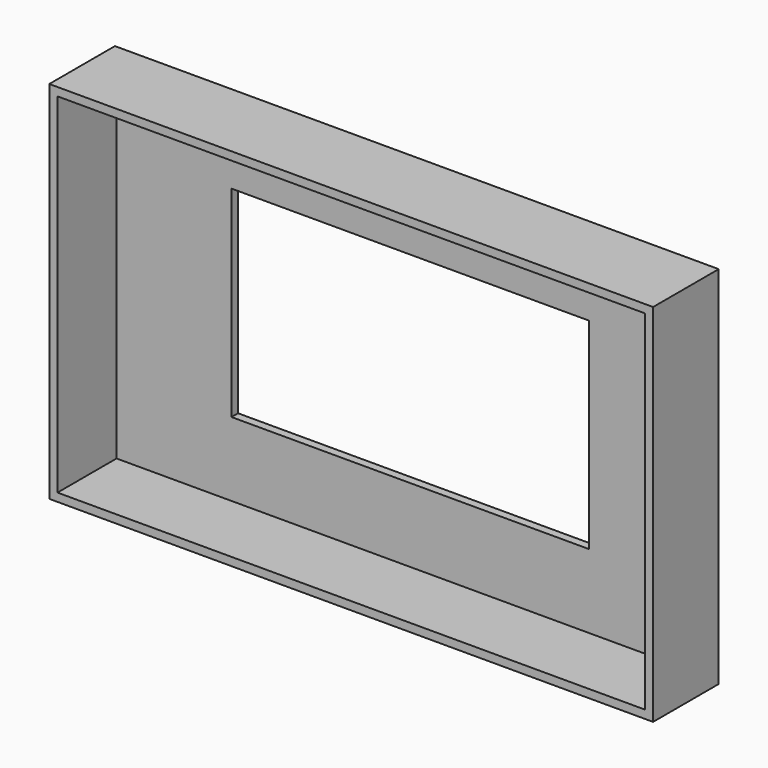
from build123d import *

# Parameters (mm, degrees)
F1_W     = 186.8932
F1_H     = 113.057654
F2_DEPTH = 25.4
F3_T     = -2.54
F0_W     = 110.6932
F0_H     = 62.257654
F4_DEPTH = 25.401


with BuildPart() as f2:
    # F1 (on Front) → F2 (new body)
    with BuildSketch(Plane.XZ):
        Rectangle(F1_W, F1_H)
    extrude(amount=F2_DEPTH)

    # F3
    f3_openings = [f2.faces().sort_by_distance(p)[0] for p in [
        (0, -25.4, 0),
    ]]
    offset(amount=F3_T, openings=f3_openings)

    # F0 (on Front) → F4 (cut, through all)
    with BuildSketch(Plane.XZ):
        Rectangle(F0_W, F0_H)
    extrude(amount=F4_DEPTH, mode=Mode.SUBTRACT)


solid = f2.part
